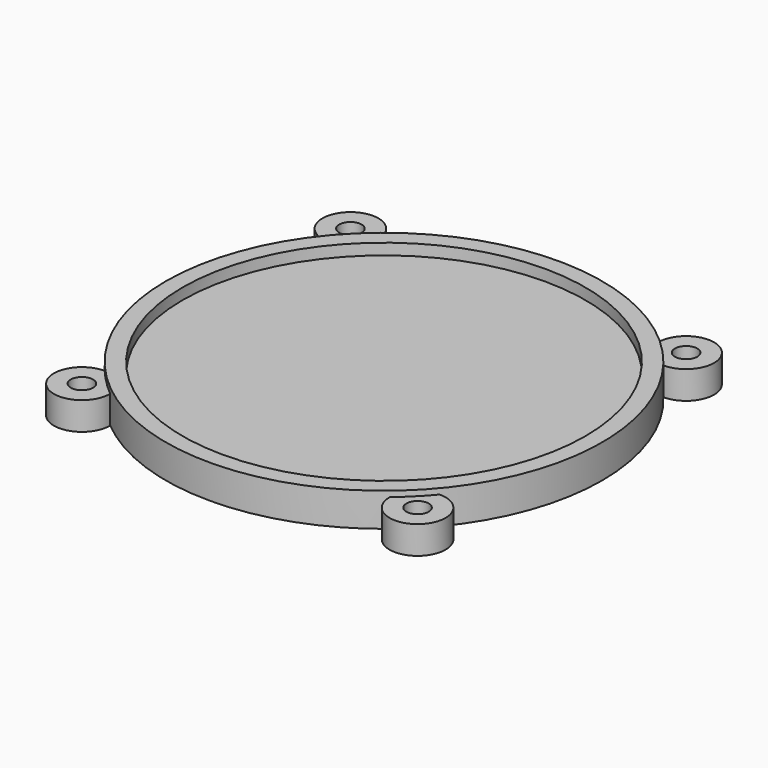
from build123d import *

# Parameters (mm, degrees)
F1_R     = 5
F1_R_2   = 2
F3_DEPTH = 5


with BuildPart() as f2:
    # F0 (on Front) → F2 (revolve)
    with BuildSketch(Plane.XZ):
        Polygon((-39, 6), (-39, 0), (0, 0), (0, 4), (-36, 4), (-36, 6), align=None)
    revolve(axis=Axis((0, 0, 2), (0, 0, -1)))

    # F1 (on Top) → F3 (join)
    with BuildSketch(Plane.XY):
        with Locations((30, 30)):
            Circle(F1_R)
        with Locations((30, 30)):
            Circle(F1_R_2, mode=Mode.SUBTRACT)
        with Locations((-30, 30)):
            Circle(F1_R)
        with Locations((-30, 30)):
            Circle(F1_R_2, mode=Mode.SUBTRACT)
        with Locations((-30, -30)):
            Circle(F1_R)
        with Locations((-30, -30)):
            Circle(F1_R_2, mode=Mode.SUBTRACT)
        with Locations((30, -30)):
            Circle(F1_R)
        with Locations((30, -30)):
            Circle(F1_R_2, mode=Mode.SUBTRACT)
    extrude(amount=F3_DEPTH)


solid = f2.part
